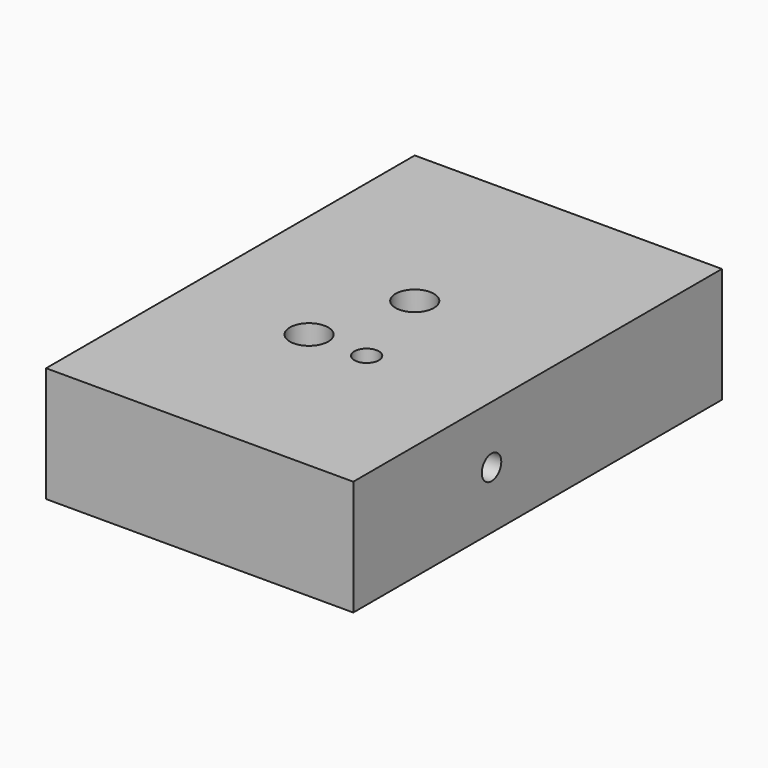
from build123d import *

# Parameters (mm, degrees)
F0_W     = 50.8
F0_H     = 76.2
F1_DEPTH = 19.05
F2_R     = 3.175
F3_DEPTH = 19.05
F2_R_2   = 2.0193
F4_DEPTH = 12.7
F5_R     = 2.0193
F6_DEPTH = 20.6502


with BuildPart() as f1:
    # F0 (on Top) → F1 (new body)
    with BuildSketch(Plane.XY):
        with Locations((25.4, 38.1)):
            Rectangle(F0_W, F0_H)
    extrude(amount=F1_DEPTH)

    # F2 (on face) → F3 (cut)
    with BuildSketch(Plane.XY.offset(19.05)):
        with Locations((25.4, 44.45)):
            Circle(F2_R)
        with Locations((20.6248, 28.575)):
            Circle(F2_R)
    extrude(amount=-F3_DEPTH, mode=Mode.SUBTRACT)

    # F2 (on face) → F4 (cut)
    with BuildSketch(Plane.XY.offset(19.05)):
        with Locations((25.4, 44.45)):
            Circle(F2_R)
        with Locations((20.6248, 28.575)):
            Circle(F2_R)
        with Locations((30.1498, 28.575)):
            Circle(F2_R_2)
    extrude(amount=-F4_DEPTH, mode=Mode.SUBTRACT)

    # F5 (on face) → F6 (cut)
    with BuildSketch(Plane.YZ.offset(50.8)):
        with Locations((28.575, 9.525)):
            Circle(F5_R)
    extrude(amount=-F6_DEPTH, mode=Mode.SUBTRACT)


solid = f1.part
